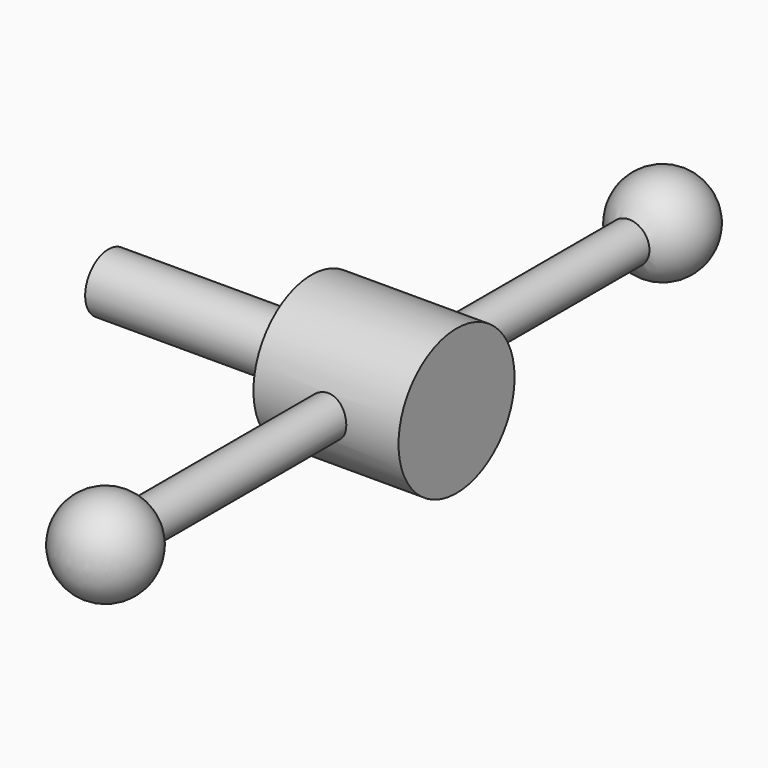
from build123d import *

# Parameters (mm, degrees)
F0_R          = 15.875
F0_R_2        = 6.35
F1_DEPTH      = 15.875
F2_DEPTH      = 60.325
F2_DEPTH_BACK = 15.875
F3_R          = 4.445
F4_DEPTH      = 76.2


with BuildPart() as f1:
    # F0 (on Right) → F1 (new body, symmetric)
    with BuildSketch(Plane.YZ):
        Circle(F0_R)
        Circle(F0_R_2, mode=Mode.SUBTRACT)
    extrude(amount=F1_DEPTH, both=True)

    # F0 (on Right) → F2 (join, two sides)
    with BuildSketch(Plane.YZ) as f2_sk:
        Circle(F0_R_2)
    extrude(amount=-F2_DEPTH)
    extrude(f2_sk.sketch, amount=F2_DEPTH_BACK)

    # F3 (on Front) → F4 (join, symmetric)
    with BuildSketch(Plane.XZ):
        Circle(F3_R)
    extrude(amount=F4_DEPTH, both=True)

    # F5 (on Top) → F6 (revolve)
    with BuildSketch(Plane.XY):
        with BuildLine():
            Line((10.16, -76.2), (-10.16, -76.2))
            ThreePointArc((-10.16, -76.2), (0, -86.36), (10.16, -76.2))
        make_face()
    revolve(axis=Axis((0, -76.2, 0), (1, 0, 0)))

    # F5 (on Top) → F7 (revolve)
    with BuildSketch(Plane.XY):
        with BuildLine():
            Line((-10.16, 76.2), (10.16, 76.2))
            ThreePointArc((10.16, 76.2), (0, 86.36), (-10.16, 76.2))
        make_face()
    revolve(axis=Axis((0, 76.2, 0), (1, 0, 0)))


solid = f1.part
